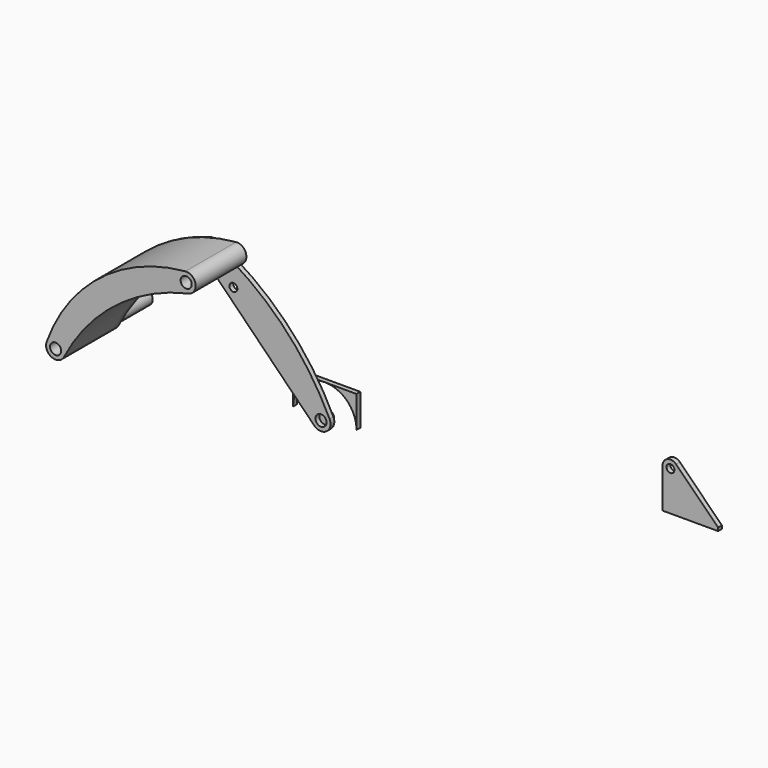
from build123d import *

# Parameters (mm, degrees)
F1_R      = 28.575
F1_R_2    = 22.225
F2_DEPTH  = 177.8
F3_R      = 22.225
F4_DEPTH  = 19.05
F5_R      = 22.225
F5_R_2    = 15.875
F6_DEPTH  = 19.05
F7_R      = 22.225
F8_DEPTH  = 19.05
F9_R      = 22.225
F10_DEPTH = 254
F11_R     = 15.875
F12_DEPTH = 19.05


with BuildPart() as f2:
    # F1 (on Front) → F2 (new body)
    with BuildSketch(Plane.XZ):
        with Locations((-477.006482, 127)):
            Circle(F1_R)
        with Locations((-477.006482, 127)):
            Circle(F1_R_2, mode=Mode.SUBTRACT)
    extrude(amount=-F2_DEPTH)


with BuildPart() as f4:
    # F3 (on Front) → F4 (new body)
    with BuildSketch(Plane.XZ):
        with Locations((383.2352, 50.8)):
            Circle(F3_R)
        with BuildLine():
            Line((256.2352, 177.8), (256.2352, 50.8))
            ThreePointArc((256.2352, 50.8), (293.432639, 140.602561), (383.2352, 177.8))
            Line((383.2352, 177.8), (256.2352, 177.8))
        make_face()
        with BuildLine():
            Line((510.2352, 177.8), (383.2352, 177.8))
            ThreePointArc((383.2352, 177.8), (473.037761, 140.602561), (510.2352, 50.8))
            Line((510.2352, 50.8), (510.2352, 177.8))
        make_face()
    extrude(amount=-F4_DEPTH)


with BuildPart() as f6:
    # F5 (on Front) → F6 (new body)
    with BuildSketch(Plane.XZ):
        with BuildLine():
            Line((-91.873034, 477.473753), (356.132166, 24.022481))
            ThreePointArc((356.132166, 24.022481), (405.166367, 19.645001), (417.585695, 67.281914))
            ThreePointArc((417.585695, 67.281914), (224.32007, 341.831389), (-47.874253, 538.400119))
            ThreePointArc((-47.874253, 538.400119), (-95.657743, 526.557265), (-91.873034, 477.473753))
        make_face()
        with Locations((383.2352, 50.8)):
            Circle(F5_R, mode=Mode.SUBTRACT)
        with Locations((32.223456, 406.078738)):
            Circle(F5_R_2, mode=Mode.SUBTRACT)
        with Locations((-64.77, 504.251273)):
            Circle(F5_R, mode=Mode.SUBTRACT)
    extrude(amount=F6_DEPTH)


with BuildPart() as f8:
    # F7 (on Front) → F8 (new body)
    with BuildSketch(Plane.XZ):
        with BuildLine():
            ThreePointArc((-74.343336, 541.128925), (-343.482366, 394.951934), (-512.892785, 139.797784))
            ThreePointArc((-512.892785, 139.797784), (-492.115179, 92.023761), (-443.088936, 109.644595))
            ThreePointArc((-443.088936, 109.644595), (-279.171577, 324.677145), (-50.482763, 468.931521))
            ThreePointArc((-50.482763, 468.931521), (-28.594435, 516.206962), (-74.343336, 541.128925))
        make_face()
        with Locations((-477.006482, 127)):
            Circle(F7_R, mode=Mode.SUBTRACT)
        with Locations((-64.77, 504.251273)):
            Circle(F7_R, mode=Mode.SUBTRACT)
    extrude(amount=F8_DEPTH)


with BuildPart() as f10:
    # F9 (on face) → F10 (new body)
    with BuildSketch(Plane.XZ.offset(19.05)):
        with BuildLine():
            ThreePointArc((42.892315, 569.438664), (-297.955481, 436.057373), (-512.892785, 139.797784))
            ThreePointArc((-512.892785, 139.797784), (-492.115179, 92.023761), (-443.088936, 109.644595))
            ThreePointArc((-443.088936, 109.644595), (-239.297716, 356.12295), (49.497992, 493.525571))
            ThreePointArc((49.497992, 493.525571), (84.194535, 534.788683), (42.892315, 569.438664))
        make_face()
        with Locations((-477.006482, 127)):
            Circle(F9_R, mode=Mode.SUBTRACT)
        with Locations((46.237965, 531.485843)):
            Circle(F9_R, mode=Mode.SUBTRACT)
    extrude(amount=F10_DEPTH)


with BuildPart() as f12:
    # F11 (on Front) → F12 (new body)
    with BuildSketch(Plane.XZ):
        with BuildLine():
            Line((1974.39503, 190.5), (1805.894389, 359.00064))
            ThreePointArc((1805.894389, 359.00064), (1771.29355, 365.883175), (1751.693749, 336.55))
            Line((1751.693749, 336.55), (1751.693749, 177.8))
            Line((1751.693749, 177.8), (1974.39503, 177.8))
            Line((1974.39503, 177.8), (1974.39503, 190.5))
        make_face()
        with Locations((1783.443749, 336.55)):
            Circle(F11_R, mode=Mode.SUBTRACT)
    extrude(amount=F12_DEPTH)


solid = Compound([f2.part, f4.part, f6.part, f8.part, f10.part, f12.part])
